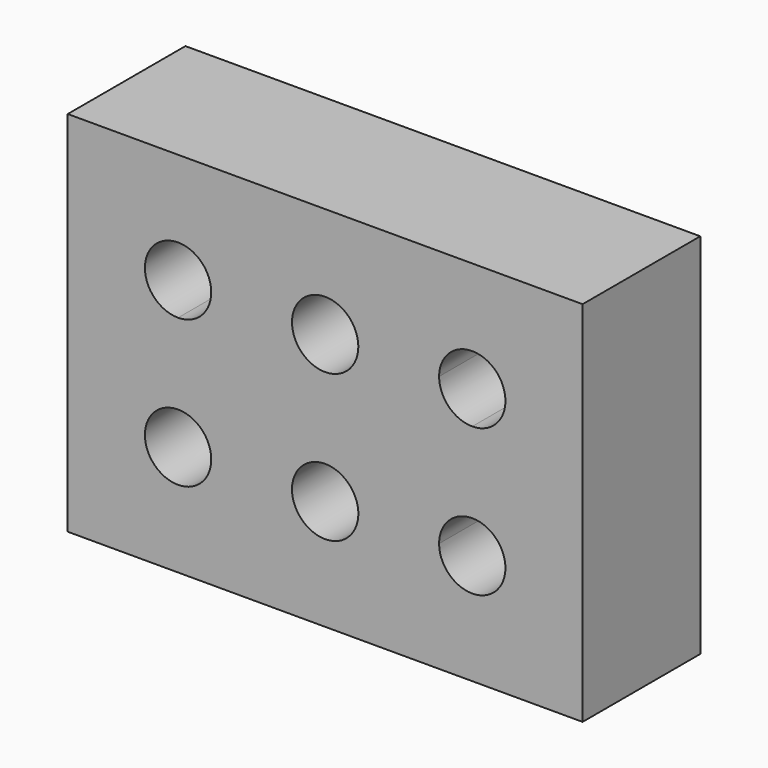
from build123d import *

# Parameters (mm, degrees)
F0_W     = 88.9
F0_H     = 63.5
F1_DEPTH = 25.4


with BuildPart() as f1:
    # F0 (on Front) → F1 (new body)
    with BuildSketch(Plane.XZ):
        Rectangle(F0_W, F0_H)
        with BuildLine():
            ThreePointArc((-25.4, 6.9723), (-29.4500955106, 16.7500955106), (-19.6723, 12.7))
            Line((-19.6723, 12.7), (-5.7277, 12.7))
            ThreePointArc((-5.7277, 12.7), (0, 18.4277), (5.7277, 12.7))
            Line((5.7277, 12.7), (19.6723, 12.7))
            ThreePointArc((19.6723, 12.7), (25.4, 18.4277), (31.1277, 12.7))
            ThreePointArc((31.1277, 12.7), (29.4500955106, 8.6499044894), (25.4, 6.9723))
            Line((25.4, 6.9723), (25.4, -6.9723))
            ThreePointArc((25.4, -6.9723), (29.4500955106, -8.6499044894), (31.1277, -12.7))
            ThreePointArc((31.1277, -12.7), (25.4, -18.4277), (19.6723, -12.7))
            Line((19.6723, -12.7), (5.7277, -12.7))
            ThreePointArc((5.7277, -12.7), (0, -18.4277), (-5.7277, -12.7))
            Line((-5.7277, -12.7), (-19.6723, -12.7))
            ThreePointArc((-19.6723, -12.7), (-29.4500955106, -16.7500955106), (-25.4, -6.9723))
            Line((-25.4, -6.9723), (-25.4, 6.9723))
        make_face(mode=Mode.SUBTRACT)
        with BuildLine():
            Line((-5.7277, 12.7), (-19.6723, 12.7))
            ThreePointArc((-19.6723, 12.7), (-21.3499044894, 8.6499044894), (-25.4, 6.9723))
            Line((-25.4, 6.9723), (-25.4, -6.9723))
            ThreePointArc((-25.4, -6.9723), (-21.3499044894, -8.6499044894), (-19.6723, -12.7))
            Line((-19.6723, -12.7), (-5.7277, -12.7))
            ThreePointArc((-5.7277, -12.7), (0, -6.9723), (5.7277, -12.7))
            Line((5.7277, -12.7), (19.6723, -12.7))
            ThreePointArc((19.6723, -12.7), (21.3499044894, -8.6499044894), (25.4, -6.9723))
            Line((25.4, -6.9723), (25.4, 6.9723))
            ThreePointArc((25.4, 6.9723), (21.3499044894, 8.6499044894), (19.6723, 12.7))
            Line((19.6723, 12.7), (5.7277, 12.7))
            ThreePointArc((5.7277, 12.7), (0, 6.9723), (-5.7277, 12.7))
        make_face()
    extrude(amount=F1_DEPTH)


solid = f1.part
